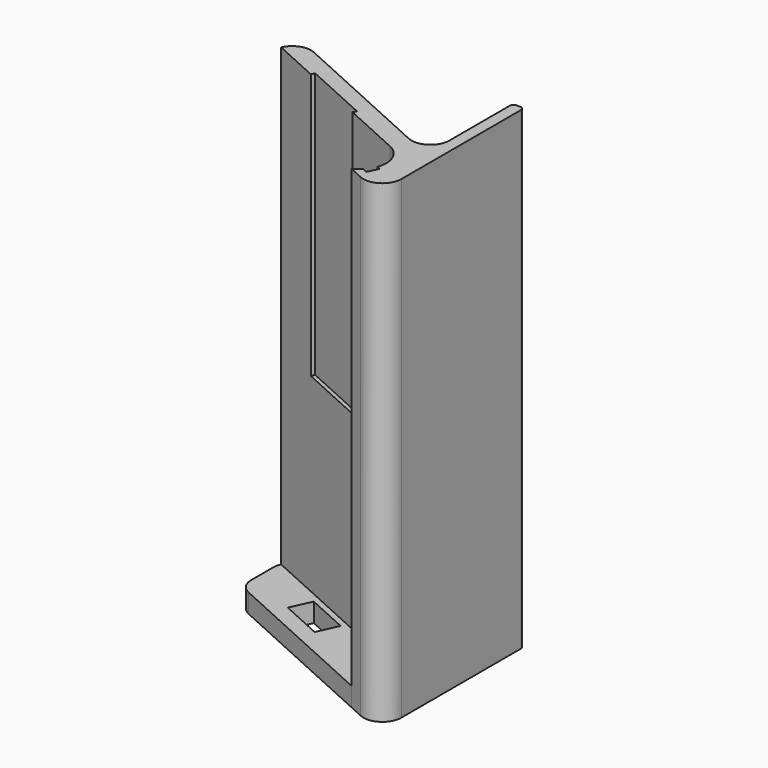
from build123d import *

# Parameters (mm, degrees)
F1_DEPTH = 120
F3_DEPTH = 5
F4_DEPTH = 5
F6_DEPTH = 70
F7_R     = 5
F8_R     = 1
F9_ANGLE = 90


with BuildPart() as f1:
    # F0 (on Right) → F1 (new body)
    with BuildSketch(Plane.YZ):
        with BuildLine():
            Line((-18.2393755255, 0), (0, 0))
            Line((0, 0), (1.3614935385, 3))
            Line((1.3614935385, 3), (25.6223567947, 56.4579031871))
            Line((25.6223567947, 56.4579031871), (20.1315400534, 56.4579031871))
            Line((20.1315400534, 56.4579031871), (-0.5316509101, 10.9273361007))
            ThreePointArc((-0.5316509101, 10.9273361007), (-6.9059303022, 6.8201828356), (-13.2802096943, 10.9273361007))
            Line((-13.2802096943, 10.9273361007), (-18.2393755255, 0))
        make_face()
        Polygon((1.3614935385, 3), (0, 0), (30, 0), (30, 3), align=None)
    extrude(amount=F1_DEPTH)

    # F0 (on Right) + F2 (on Right) → F3 (join)
    with BuildSketch(Plane.YZ):
        with BuildLine():
            Line((-18.2393755255, 0), (0, 0))
            Line((0, 0), (1.3614935385, 3))
            Line((1.3614935385, 3), (25.6223567947, 56.4579031871))
            Line((25.6223567947, 56.4579031871), (20.1315400534, 56.4579031871))
            Line((20.1315400534, 56.4579031871), (-0.5316509101, 10.9273361007))
            ThreePointArc((-0.5316509101, 10.9273361007), (-6.9059303022, 6.8201828356), (-13.2802096943, 10.9273361007))
            Line((-13.2802096943, 10.9273361007), (-18.2393755255, 0))
        make_face()
    with BuildSketch(Plane.YZ):
        Polygon((0, 0), (25.6223567947, 56.4579031871), (7.3829812692, 56.4579031871), (-13.2802096943, 10.9273361007), (-18.2393755255, 0), align=None)
        Polygon((11.2028951482, 40.4136113624), (6.1610765531, 29.3041529933), (0.6974085027, 31.7837359089), (5.7392270978, 42.893194278), align=None, mode=Mode.SUBTRACT)
    extrude(amount=-F3_DEPTH)

    # F0 (on Right) → F4 (join, through all)
    with BuildSketch(Plane.YZ):
        Polygon((1.3614935385, 3), (0, 0), (30, 0), (30, 3), align=None)
    extrude(amount=-F4_DEPTH)

    # F5 (on face) → F6 (cut)
    with BuildSketch(Plane.YZ.offset(120)):
        with BuildLine():
            ThreePointArc((-9.3360822182, 7.2555532448), (-10.7003955127, 7.9378334949), (-11.8845214943, 8.8994481606))
            Line((-11.8845214943, 8.8994481606), (-12.4811800626, 7.5847333608))
            Line((-12.4811800626, 7.5847333608), (-9.7493460374, 6.344941903))
            Line((-9.7493460374, 6.344941903), (-9.3360822182, 7.2555532448))
        make_face()
        Polygon((14.3532357317, 43.7256261138), (6.5012231655, 26.424010621), (7.4118345073, 26.0107468017), (15.2638470734, 43.3123622945), align=None)
    extrude(amount=-F6_DEPTH, mode=Mode.SUBTRACT)

    # F7 (call 1 of 4: OpenCascade refuses the feature's edges together)
    f7_edges = [f1.edges().sort_by_distance(p)[0] for p in [
        (57.5, -18.239376, 0),
    ]]
    fillet(f7_edges, radius=F7_R)

    # F7#2 (call 2 of 4)
    f7_2_edges = [f1.edges().sort_by_distance(p)[0] for p in [
        (-2.5, 7.382981, 56.457903),
    ]]
    fillet(f7_2_edges, radius=F7_R)

    # F7#4 (call 3 of 4)
    f7_4_edges = [f1.edges().sort_by_distance(p)[0] for p in [
        (57.5, 1.361494, 3),
    ]]
    fillet(f7_4_edges, radius=F7_R)

    # F7#3 (call 4 of 4)
    f7_3_edges = [f1.edges().sort_by_distance(p)[0] for p in [
        (57.5, 25.622357, 56.457903),
    ]]
    fillet(f7_3_edges, radius=F7_R)

    # F8
    f8_edges = [f1.edges().sort_by_distance(p)[0] for p in [
        (57.5, 30, 3),
        (57.5, 30, 0),
    ]]
    fillet(f8_edges, radius=F8_R)


with BuildPart() as f1_1:
    # F9: moved
    add(f1.part.rotate(Axis((-5, 9.2602985566, 0), (0, -1, 0)), F9_ANGLE))


solid = f1_1.part
